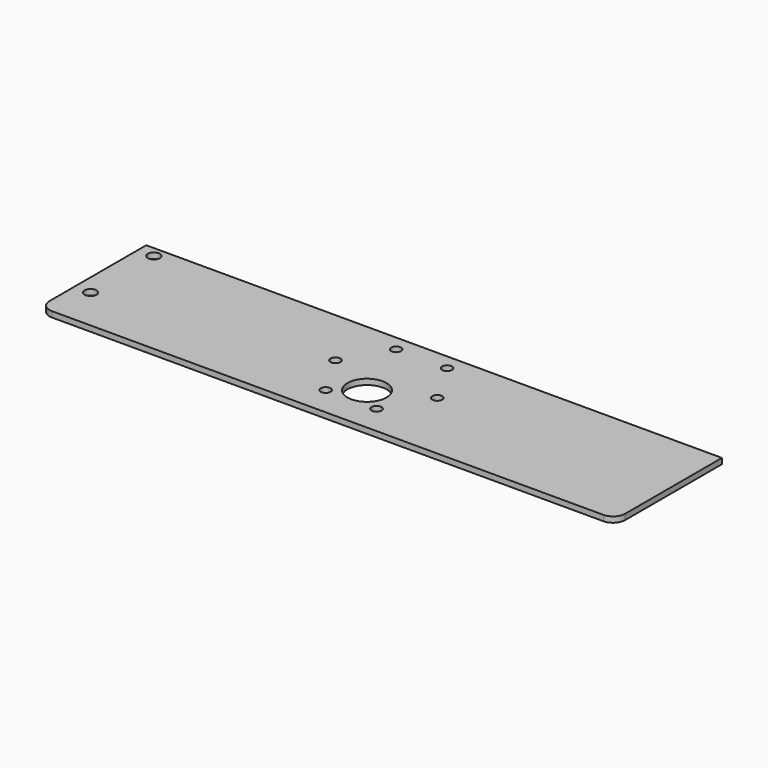
from build123d import *

# Parameters (mm, degrees)
F0_W     = 175.293922
F0_H     = 40.514219
F0_R     = 1.5
F0_R_2   = 1.8288
F0_R_3   = 5.969
F1_DEPTH = 1.70942
F2_R     = 3.69316


with BuildPart() as f1:
    # F0 (on Top) → F1 (new body)
    with BuildSketch(Plane.XY):
        with Locations((0, -2.09611)):
            Rectangle(F0_W, F0_H)
        with Locations((-7.747, -13.418198)):
            Circle(F0_R, mode=Mode.SUBTRACT)
        with Locations((-82.762541, -9.135059)):
            Circle(F0_R_2, mode=Mode.SUBTRACT)
        with Locations((7.747, -13.418198)):
            Circle(F0_R, mode=Mode.SUBTRACT)
        with Locations((0, -7.366)):
            Circle(F0_R_3, mode=Mode.SUBTRACT)
        with Locations((-15.494, 0)):
            Circle(F0_R, mode=Mode.SUBTRACT)
        with Locations((-82.762541, 14.986)):
            Circle(F0_R_2, mode=Mode.SUBTRACT)
        with Locations((-7.747, 13.418198)):
            Circle(F0_R, mode=Mode.SUBTRACT)
        with Locations((15.494, 0)):
            Circle(F0_R, mode=Mode.SUBTRACT)
        with Locations((7.747, 13.418198)):
            Circle(F0_R, mode=Mode.SUBTRACT)
    extrude(amount=F1_DEPTH)

    # F2
    f2_edges = [f1.edges().sort_by_distance(p)[0] for p in [
        (-87.646961, -22.353219, 0.85471),
        (87.646961, -22.353219, 0.85471),
    ]]
    fillet(f2_edges, radius=F2_R)


solid = f1.part
